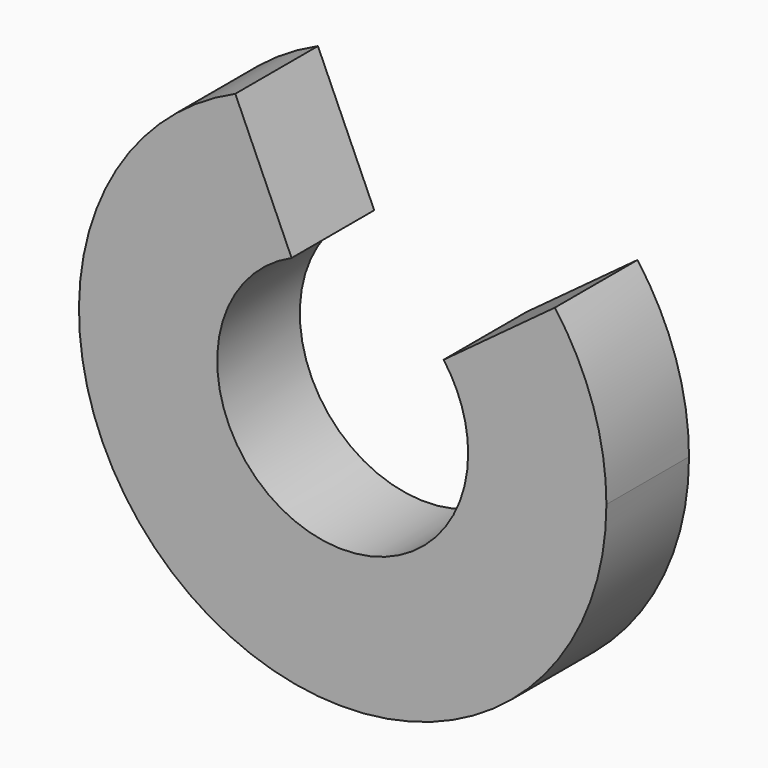
from build123d import *

# Parameters (mm, degrees)
F1_DEPTH = 6.35


with BuildPart() as f1:
    # F0 (on Front) → F1 (new body)
    with BuildSketch(Plane.XZ):
        with BuildLine():
            ThreePointArc((-6.6021143967, 14.8098102646), (-8.8279868534, -13.6009206561), (16.2147585421, 0))
            ThreePointArc((16.2147585421, 0), (15.4028706668, 5.066554036), (13.0485109865, 9.6257340299))
            Line((13.0485109865, 9.6257340299), (6.2085189912, 4.5799518881))
            ThreePointArc((6.2085189912, 4.5799518881), (7.3287300867, 2.410680957), (7.7150286688, 0))
            ThreePointArc((7.7150286688, 0), (-4.2003814911, -6.471357098), (-3.1413049854, 7.0465502446))
            Line((-3.1413049854, 7.0465502446), (-6.6021143967, 14.8098102646))
        make_face()
    extrude(amount=F1_DEPTH)


solid = f1.part
